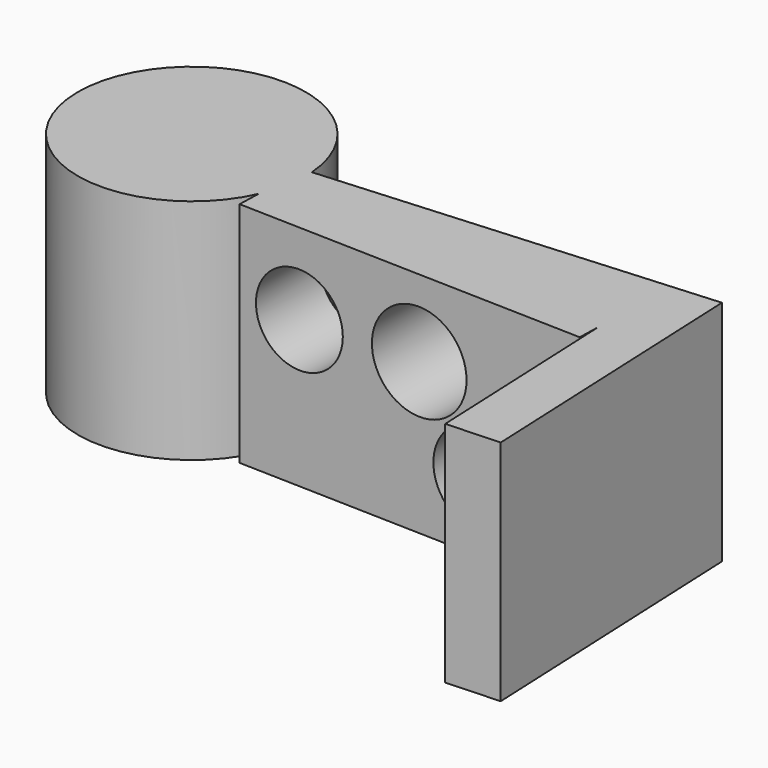
from build123d import *

# Parameters (mm, degrees)
F0_R      = 127
F1_DEPTH  = 254
F3_DEPTH  = 254
F4_DEPTH  = 25.4
F5_R      = 49.5787296889
F6_DEPTH  = 210.82
F7_R      = 54.002568176
F8_DEPTH  = 254
F9_R      = 52.4914497997
F10_DEPTH = 254


with BuildPart() as f1:
    # F0 (on Top) → F1 (new body)
    with BuildSketch(Plane.XY):
        Circle(F0_R)
    extrude(amount=F1_DEPTH)

    # F2 (on face) → F3 (join)
    with BuildSketch(Plane.XY.offset(254)):
        with BuildLine():
            Line((559.1962337494, 39.9803072214), (126.6766473602, 9.056876591))
            ThreePointArc((126.6766473602, 9.056876591), (126.9191360961, 4.5313234964), (127, 0))
            ThreePointArc((127, 0), (124.2007035095, -26.5176403124), (115.9262165711, -51.8662926332))
            Line((115.9262165711, -51.8662926332), (503.8578976831, -62.8307757108))
            Line((503.8578976831, -62.8307757108), (513.781719797, -288.9111098311))
            Line((513.781719797, -288.9111098311), (573.5178616361, -286.2889850555))
            Line((573.5178616361, -286.2889850555), (559.1962337494, 39.9803072214))
        make_face()
    extrude(amount=-F3_DEPTH)

    # F4 (add): a face of the model
    f4_faces = [f1.faces().sort_by_distance(p)[0] for p in [
        (309.8920571271, -57.348534172, 127),
    ]]
    extrude(f4_faces, amount=F4_DEPTH)

    # F5 (on face) → F6 (cut)
    with BuildSketch(Plane(origin=(-2.08986034, -73.9408350817, 0), x_dir=(0.9996008136, -0.0282526711, 0), z_dir=(-0.0282526711, -0.9996008136, 0))):
        with Locations((185.5181306601, 163.3890718222)):
            Circle(F5_R)
    extrude(amount=-F6_DEPTH, mode=Mode.SUBTRACT)

    # F7 (on face) → F8 (cut)
    with BuildSketch(Plane(origin=(-2.08986034, -73.9408350817, 0), x_dir=(0.9996008136, -0.0282526711, 0), z_dir=(-0.0282526711, -0.9996008136, 0))):
        with Locations((322.3161399364, 168.2878434658)):
            Circle(F7_R)
    extrude(amount=-F8_DEPTH, mode=Mode.SUBTRACT)

    # F9 (on face) → F10 (cut)
    with BuildSketch(Plane(origin=(-2.08986034, -73.9408350817, 0), x_dir=(0.9996008136, -0.0282526711, 0), z_dir=(-0.0282526711, -0.9996008136, 0))):
        with Locations((390.9286558628, 74.9529749155)):
            Circle(F9_R)
    extrude(amount=-F10_DEPTH, mode=Mode.SUBTRACT)


solid = f1.part
